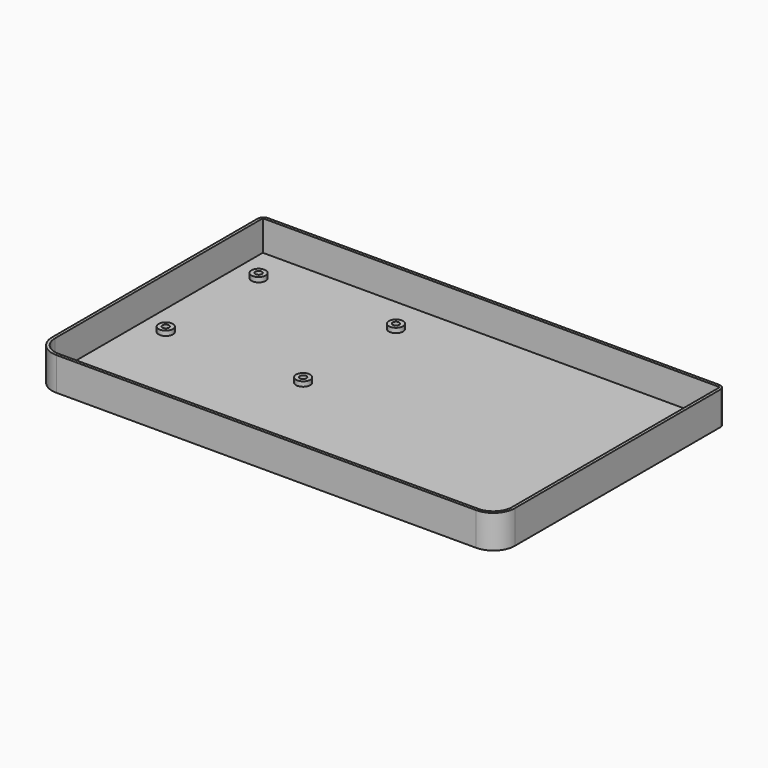
from build123d import *

# Parameters (mm, degrees)
F1_DEPTH = 1.2
F2_DEPTH = 14
F3_R     = 2.5
F4_R     = 3
F4_R_2   = 1.375
F5_DEPTH = 2


with BuildPart() as f1:
    # F0 (on Top) → F1 (new body)
    with BuildSketch(Plane.XY):
        with BuildLine():
            Line((179.464314, 27.344292), (-13.535686, 27.344292))
            Line((-13.535686, 27.344292), (-13.535686, -82.395708))
            ThreePointArc((-13.535686, -82.395708), (-11.233546, -87.953567), (-5.675686, -90.255708))
            Line((-5.675686, -90.255708), (171.604314, -90.255708))
            ThreePointArc((171.604314, -90.255708), (177.162173, -87.953567), (179.464314, -82.395708))
            Line((179.464314, -82.395708), (179.464314, 27.344292))
        make_face()
    extrude(amount=F1_DEPTH)

    # F0 (on Top) → F2 (join)
    with BuildSketch(Plane.XY):
        with BuildLine():
            Line((180.664314, 28.544292), (-14.735686, 28.544292))
            Line((-14.735686, 28.544292), (-14.735686, -82.395708))
            ThreePointArc((-14.735686, -82.395708), (-12.082074, -88.802096), (-5.675686, -91.455708))
            Line((-5.675686, -91.455708), (171.604314, -91.455708))
            ThreePointArc((171.604314, -91.455708), (178.010701, -88.802096), (180.664314, -82.395708))
            Line((180.664314, -82.395708), (180.664314, 28.544292))
        make_face()
        with BuildLine():
            Line((-13.535686, -82.395708), (-13.535686, 27.344292))
            Line((-13.535686, 27.344292), (179.464314, 27.344292))
            Line((179.464314, 27.344292), (179.464314, -82.395708))
            ThreePointArc((179.464314, -82.395708), (177.162173, -87.953567), (171.604314, -90.255708))
            Line((171.604314, -90.255708), (-5.675686, -90.255708))
            ThreePointArc((-5.675686, -90.255708), (-11.233546, -87.953567), (-13.535686, -82.395708))
        make_face(mode=Mode.SUBTRACT)
    extrude(amount=F2_DEPTH)

    # F3
    f3_edges = [f1.edges().sort_by_distance(p)[0] for p in [
        (-14.735686, 28.544292, 7),
        (180.664314, 28.544292, 7),
    ]]
    fillet(f3_edges, radius=F3_R)

    # F4 (on face) → F5 (join)
    with BuildSketch(Plane.XY.offset(1.2)):
        with Locations((-3.247979, -36.737969)):
            Circle(F4_R)
        with Locations((-3.247979, -36.737969)):
            Circle(F4_R_2, mode=Mode.SUBTRACT)
        with Locations((54.752021, -36.737969)):
            Circle(F4_R)
        with Locations((54.752021, -36.737969)):
            Circle(F4_R_2, mode=Mode.SUBTRACT)
        with Locations((54.752021, 12.262031)):
            Circle(F4_R)
        with Locations((54.752021, 12.262031)):
            Circle(F4_R_2, mode=Mode.SUBTRACT)
        with Locations((-3.247979, 12.262031)):
            Circle(F4_R)
        with Locations((-3.247979, 12.262031)):
            Circle(F4_R_2, mode=Mode.SUBTRACT)
    extrude(amount=F5_DEPTH)


solid = f1.part
